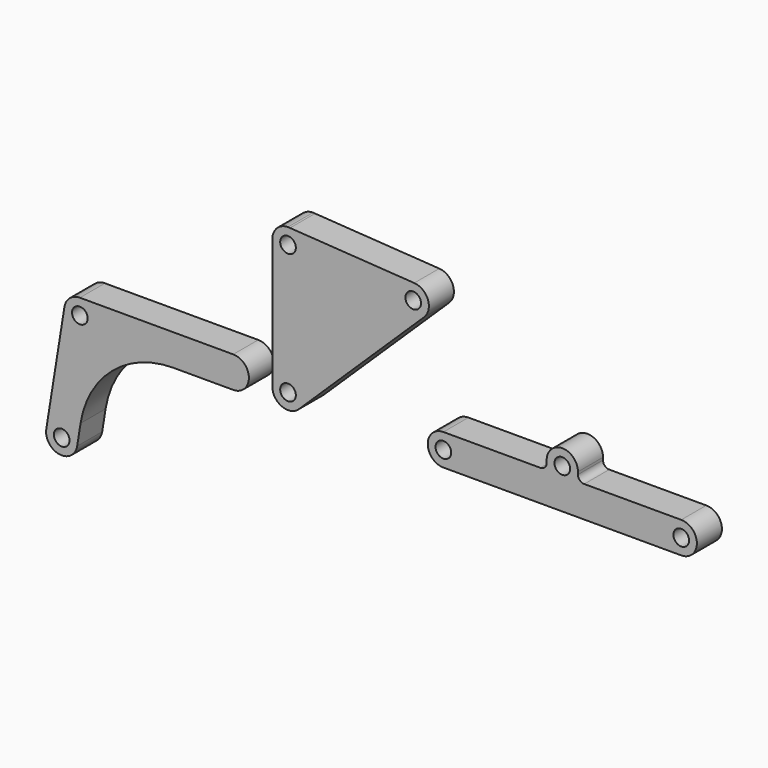
from build123d import *

# Parameters (mm, degrees)
F0_R     = 2.5
F1_DEPTH = 10
F2_R     = 2.5
F4_DEPTH = 10
F3_R     = 2.5
F5_DEPTH = 10


with BuildPart() as f1:
    # F0 (on Front) → F1 (new body)
    with BuildSketch(Plane.XZ):
        with BuildLine():
            Line((40.339092, 43.879605), (0.646863, 46.45798))
            Line((0.646863, 46.45798), (0, 46.5))
            ThreePointArc((0, 46.5), (-3.535534, 45.035534), (-5, 41.5))
            Line((-5, 41.5), (-5, 0))
            ThreePointArc((-5, 0), (-1.946293, -4.605643), (3.484778, -3.585572))
            Line((3.484778, -3.585572), (43.499757, 35.304549))
            ThreePointArc((43.499757, 35.304549), (44.70644, 40.619338), (40.339092, 43.879605))
        make_face()
        Circle(F0_R, mode=Mode.SUBTRACT)
        with Locations((0, 41.5)):
            Circle(F0_R, mode=Mode.SUBTRACT)
        with Locations((40.014979, 38.89012)):
            Circle(F0_R, mode=Mode.SUBTRACT)
    extrude(amount=F1_DEPTH)


with BuildPart() as f4:
    # F2 (on Front) → F4 (new body)
    with BuildSketch(Plane.XZ):
        with BuildLine():
            Line((-36.657991, -5), (-17.5, -5))
            ThreePointArc((-17.5, -5), (-12.5, 0), (-17.5, 5))
            Line((-17.5, 5), (-66.5, 5))
            ThreePointArc((-66.5, 5), (-69.744045, 3.804756), (-71.437121, 0.790469))
            Line((-71.437121, 0.790469), (-77.239161, -35.447996))
            ThreePointArc((-77.239161, -35.447996), (-73.09251, -41.175585), (-67.36492, -37.028933))
            Line((-67.36492, -37.028933), (-66.280715, -30.257187))
            ThreePointArc((-66.280715, -30.257187), (-56.122262, -12.171461), (-36.657991, -5))
        make_face()
        with Locations((-72.302041, -36.238465)):
            Circle(F2_R, mode=Mode.SUBTRACT)
        with Locations((-66.5, 0)):
            Circle(F2_R, mode=Mode.SUBTRACT)
    extrude(amount=F4_DEPTH)


with BuildPart() as f5:
    # F3 (on Front) → F5 (new body)
    with BuildSketch(Plane.XZ):
        with BuildLine():
            Line((80.654577, 5), (49.654577, 5))
            ThreePointArc((49.654577, 5), (44.654577, 0), (49.654577, -5))
            Line((49.654577, -5), (87.654577, -5))
            Line((87.654577, -5), (125.654577, -5))
            ThreePointArc((125.654577, -5), (130.654577, 0), (125.654577, 5))
            Line((125.654577, 5), (94.654577, 5))
            ThreePointArc((94.654577, 5), (93.240363, 5.585786), (92.654577, 7))
            Line((92.654577, 7), (92.654577, 7.8))
            ThreePointArc((92.654577, 7.8), (87.654577, 12.8), (82.654577, 7.8))
            Line((82.654577, 7.8), (82.654577, 7))
            ThreePointArc((82.654577, 7), (82.06879, 5.585786), (80.654577, 5))
        make_face()
        with Locations((49.654577, 0)):
            Circle(F3_R, mode=Mode.SUBTRACT)
        with Locations((125.654577, 0)):
            Circle(F3_R, mode=Mode.SUBTRACT)
        with Locations((87.654577, 7.8)):
            Circle(F3_R, mode=Mode.SUBTRACT)
    extrude(amount=F5_DEPTH)


solid = Compound([f1.part, f4.part, f5.part])
